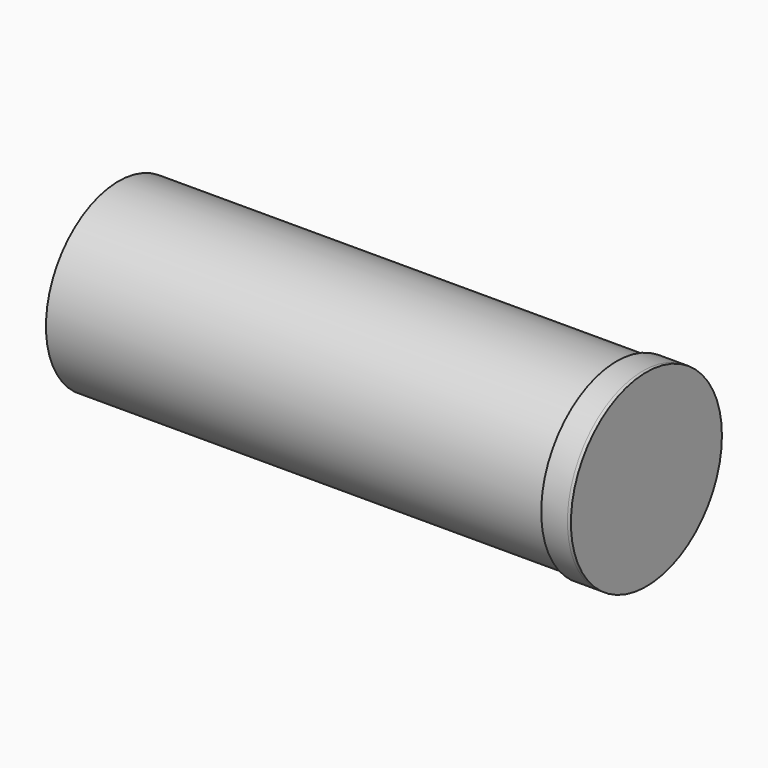
from build123d import *

# Parameters (mm, degrees)
F2_R     = 52
F2_R_2   = 50
F3_DEPTH = 300
F5_R     = 54
F5_R_2   = 52
F6_DEPTH = 15
F5_R_3   = 50
F7_DEPTH = 2


with BuildPart() as f3:
    # F2 (on Right) → F3 (new body)
    with BuildSketch(Plane.YZ):
        with Locations((-44.0512485802, 36.3996587694)):
            Circle(F2_R)
        with Locations((-44.0512485802, 36.3996587694)):
            Circle(F2_R_2, mode=Mode.SUBTRACT)
    extrude(amount=-F3_DEPTH)


with BuildPart() as f6:
    # F5 (on face) → F6 (new body)
    with BuildSketch(Plane.YZ):
        with Locations((-44.0512485802, 36.3996587694)):
            Circle(F5_R)
        with Locations((-44.0512485802, 36.3996587694)):
            Circle(F5_R_2, mode=Mode.SUBTRACT)
    extrude(amount=-F6_DEPTH)

    # F5 (on face) → F7 (join)
    with BuildSketch(Plane.YZ):
        with Locations((-44.0512485802, 36.3996587694)):
            Circle(F5_R)
        with Locations((-44.0512485802, 36.3996587694)):
            Circle(F5_R_2, mode=Mode.SUBTRACT)
        with Locations((-44.0512485802, 36.3996587694)):
            Circle(F5_R_2)
        with Locations((-44.0512485802, 36.3996587694)):
            Circle(F5_R_3, mode=Mode.SUBTRACT)
        with Locations((-44.0512485802, 36.3996587694)):
            Circle(F5_R_3)
    extrude(amount=F7_DEPTH)


solid = Compound([f3.part, f6.part])
